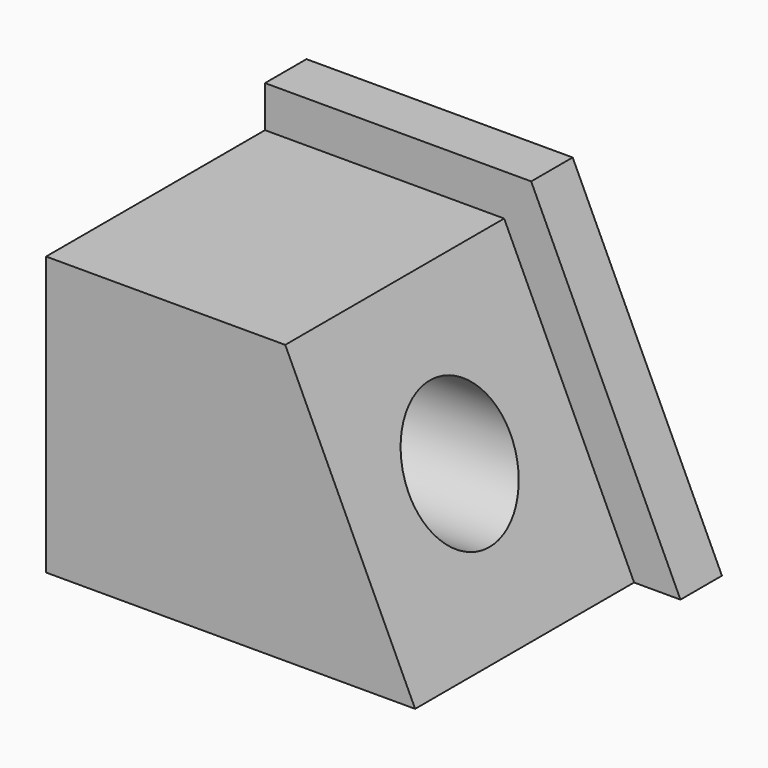
from build123d import *

# Parameters (mm, degrees)
F1_DEPTH = 6.35
F3_DEPTH = 33.528
F4_R     = 7.812407
F5_DEPTH = 76.2


with BuildPart() as f1:
    # F0 (on Front) → F1 (new body)
    with BuildSketch(Plane.XZ):
        Polygon((0, 39.166801), (0, 0), (50.901599, 0), (32.613602, 39.166801), align=None)
    extrude(amount=-F1_DEPTH)

    # F2 (on face) → F3 (join)
    with BuildSketch(Plane.XZ):
        Polygon((45.216922, 0), (29.300908, 34.086801), (0, 34.086801), (0, 0), align=None)
    extrude(amount=F3_DEPTH)

    # F4 (on face) → F5 (cut)
    with BuildSketch(Plane(origin=(0, 0, 0), x_dir=(0, -1, 0), z_dir=(-1, 0, 0))):
        with Locations((16.764, 17.0434)):
            Circle(F4_R)
    extrude(amount=-F5_DEPTH, mode=Mode.SUBTRACT)


solid = f1.part
